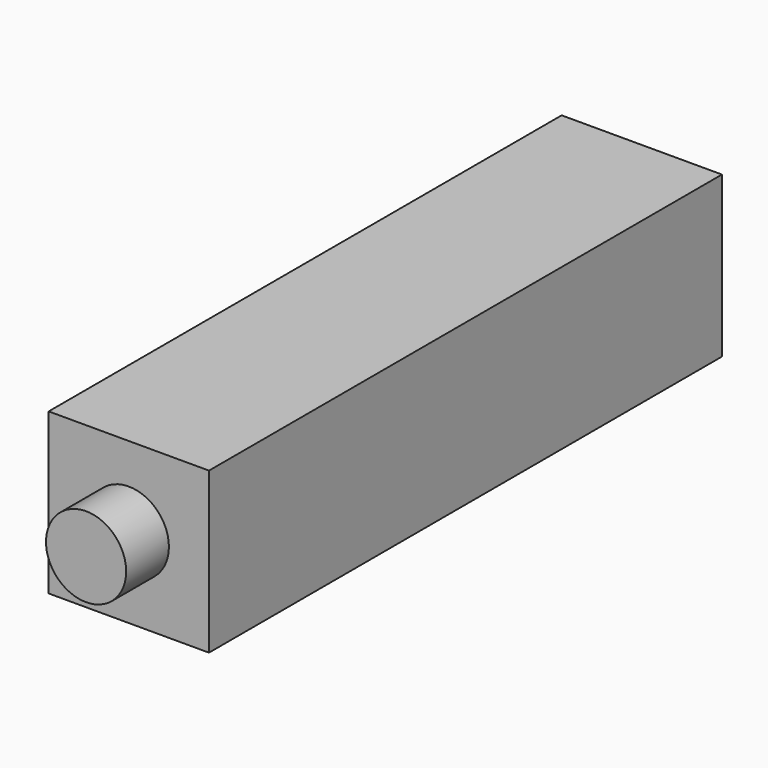
from build123d import *

# Parameters (mm, degrees)
F1_DEPTH = 60
F2_R     = 7.5
F3_DEPTH = 10
F4_R     = 10
F5_DEPTH = 40


with BuildPart() as f1:
    # F0 (on Front) → F1 (new body, symmetric)
    with BuildSketch(Plane.XZ):
        Polygon((15, -15), (15, 0), (15, 15), (0, 15), (-15, 15), (-15, -15), align=None)
    extrude(amount=F1_DEPTH, both=True)

    # F2 (on face) → F3 (join)
    with BuildSketch(Plane.XZ.offset(60)):
        Circle(F2_R)
    extrude(amount=F3_DEPTH)

    # F4 (on face) → F5 (cut)
    with BuildSketch(Plane(origin=(0, 60, 0), x_dir=(-1, 0, 0), z_dir=(0, 1, 0))):
        Circle(F4_R)
    extrude(amount=-F5_DEPTH, mode=Mode.SUBTRACT)


solid = f1.part
